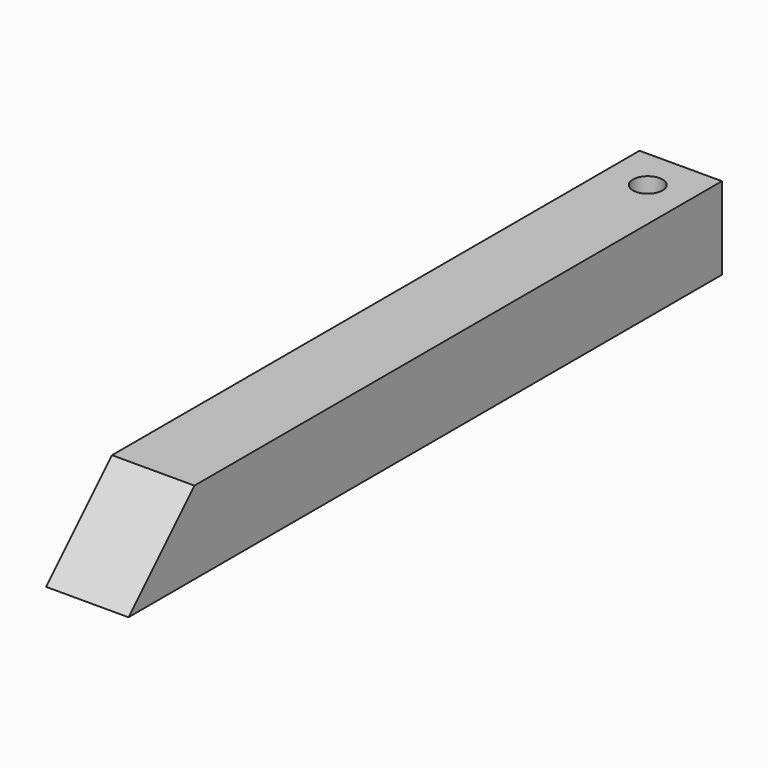
from build123d import *

# Parameters (mm, degrees)
F0_W     = 50
F0_H     = 50
F1_DEPTH = 450
F3_DEPTH = 50.001
F4_R     = 9
F5_DEPTH = 25


with BuildPart() as f1:
    # F0 (on Front) → F1 (new body)
    with BuildSketch(Plane.XZ):
        Rectangle(F0_W, F0_H)
    extrude(amount=F1_DEPTH)

    # F2 (on face) → F3 (cut, through all)
    with BuildSketch(Plane.YZ.offset(25)):
        Polygon((-400, 25), (-450, 25), (-450, -25), align=None)
    extrude(amount=-F3_DEPTH, mode=Mode.SUBTRACT)

    # F4 (on face) → F5 (cut)
    with BuildSketch(Plane.XY.offset(25)):
        with Locations((0, -25)):
            Circle(F4_R)
    extrude(amount=-F5_DEPTH, mode=Mode.SUBTRACT)


solid = f1.part
